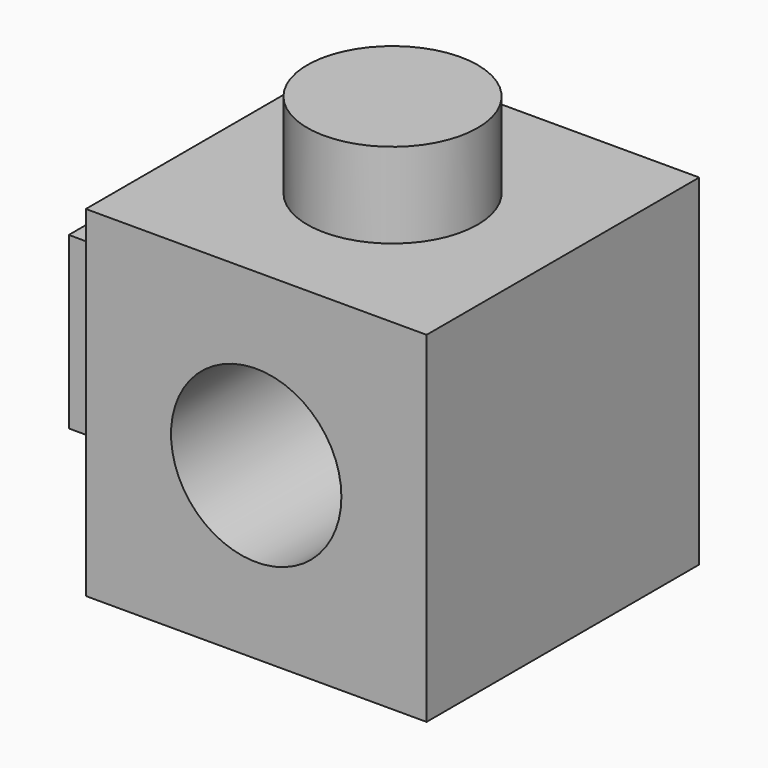
from build123d import *

# Parameters (mm, degrees)
F0_W     = 50.8
F0_H     = 50.8
F1_DEPTH = 50.8
F2_R     = 12.7
F3_DEPTH = 50.8
F4_R     = 12.7
F5_DEPTH = 12.7
F6_W     = 25.4
F6_H     = 25.4
F7_DEPTH = 12.7


with BuildPart() as f1:
    # F0 (on Front) → F1 (new body)
    with BuildSketch(Plane.XZ):
        with Locations((-32.847231, 40.294464)):
            Rectangle(F0_W, F0_H)
    extrude(amount=F1_DEPTH)

    # F2 (on face) → F3 (cut)
    with BuildSketch(Plane.XZ.offset(50.8)):
        with Locations((-32.847231, 40.294464)):
            Circle(F2_R)
    extrude(amount=-F3_DEPTH, mode=Mode.SUBTRACT)

    # F4 (on face) → F5 (join)
    with BuildSketch(Plane.XY.offset(65.694464)):
        with Locations((-32.847231, -25.4)):
            Circle(F4_R)
    extrude(amount=F5_DEPTH)

    # F6 (on face) → F7 (join)
    with BuildSketch(Plane(origin=(-58.247231, 0, 0), x_dir=(0, -1, 0), z_dir=(-1, 0, 0))):
        with Locations((25.4, 40.294464)):
            Rectangle(F6_W, F6_H)
    extrude(amount=F7_DEPTH)


solid = f1.part
